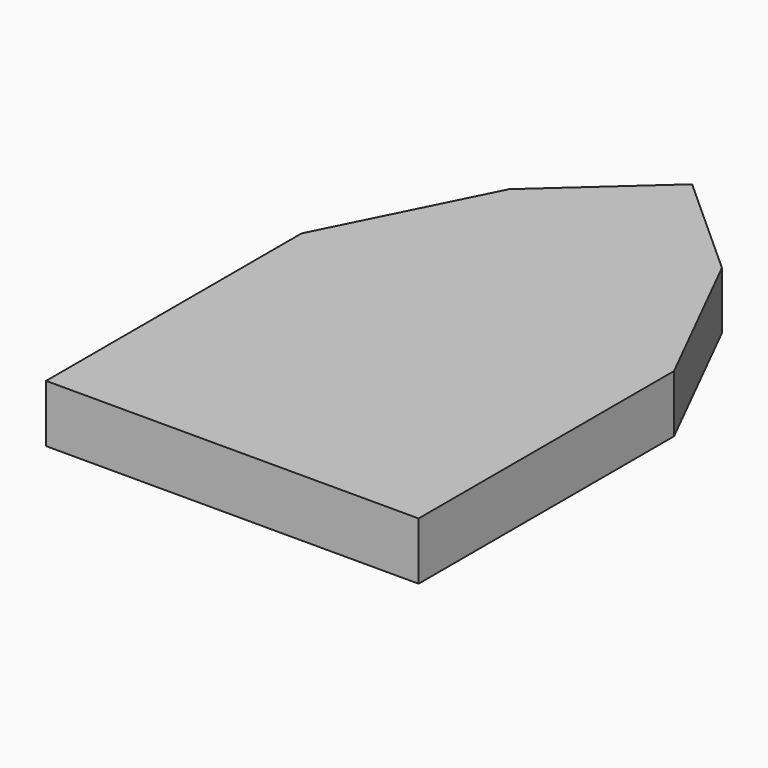
from build123d import *

# Parameters (mm, degrees)
F0_W     = 70
F0_H     = 30
F1_DEPTH = 10.8


with BuildPart() as f1:
    # F0 (on Top) → F1 (new body)
    with BuildSketch(Plane.XY):
        with Locations((0, -35.666667)):
            Rectangle(F0_W, F0_H)
        Polygon((-20, 39.333333), (-35, 9.333333), (35, 9.333333), (20, 39.333333), align=None)
        with Locations((0, -5.666667)):
            Rectangle(F0_W, F0_H)
        Polygon((0, 57.333333), (-20, 39.333333), (20, 39.333333), align=None)
    extrude(amount=F1_DEPTH)


solid = f1.part
